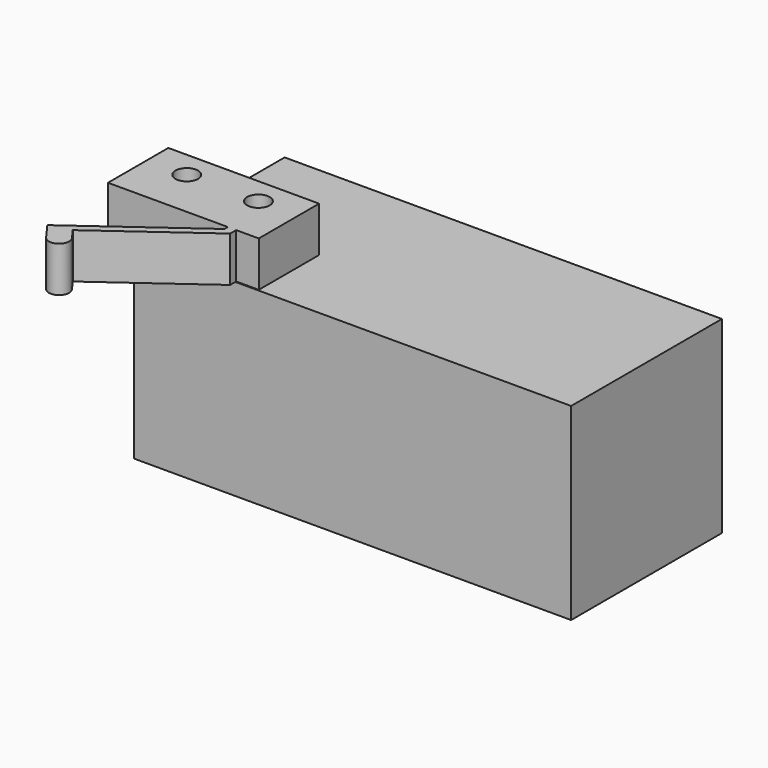
from build123d import *

# Parameters (mm, degrees)
F0_R     = 1.5
F1_DEPTH = 3
F2_W     = 58
F2_H     = 25
F3_DEPTH = 25


with BuildPart() as f1:
    # F0 (on Top) → F1 (new body, symmetric)
    with BuildSketch(Plane.XY):
        Polygon((20, -10), (20, 0), (0, 0), (0, -10), (15.890623, -10), (17, -10), align=None)
        with Locations((5.25, -3.5)):
            Circle(F0_R, mode=Mode.SUBTRACT)
        with Locations((14.75, -3.5)):
            Circle(F0_R, mode=Mode.SUBTRACT)
        Polygon((17, -11), (17, -10), (15.890623, -10), (15.890623, -10.569337), (1.03303, -21.346781), (1.620201, -22.156244), (3.790832, -20.581705), align=None)
        with BuildLine():
            Line((4.834822, -22.020931), (3.790832, -20.581705))
            Line((3.790832, -20.581705), (1.620201, -22.156244))
            Line((1.620201, -22.156244), (2.664191, -23.59547))
            ThreePointArc((2.664191, -23.59547), (4.536776, -23.893516), (4.834822, -22.020931))
        make_face()
    extrude(amount=F1_DEPTH, both=True)


with BuildPart() as f3:
    # F2 (on face) → F3 (new body)
    with BuildSketch(Plane(origin=(0, 0, -3), x_dir=(1, 0, 0), z_dir=(0, 0, -1))):
        with Locations((32.534308, -2.366132)):
            Rectangle(F2_W, F2_H)
    extrude(amount=F3_DEPTH)


solid = Compound([f1.part, f3.part])
